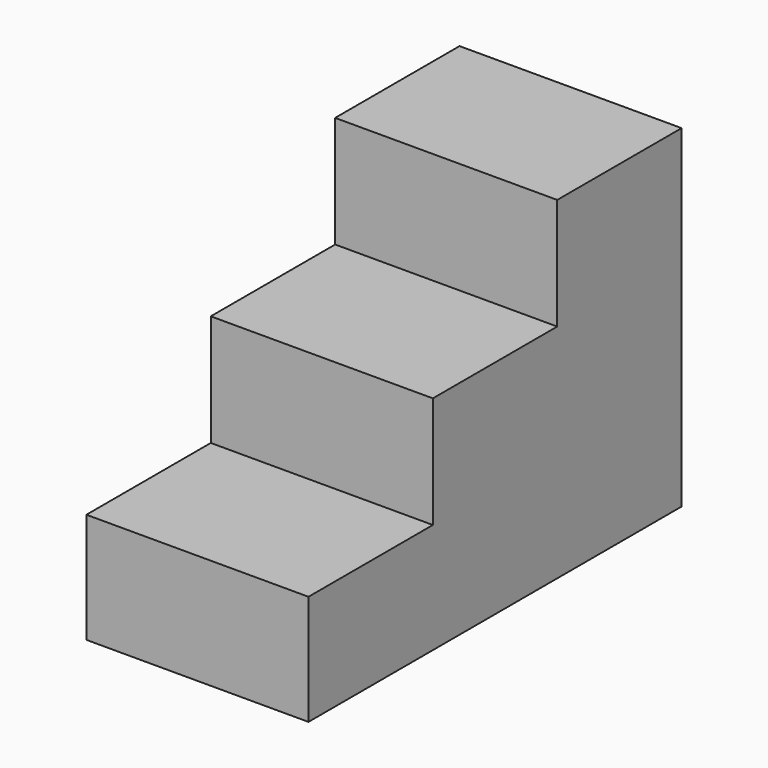
from build123d import *

# Parameters (mm, degrees)
F0_W     = 1270
F0_H     = 1905
F1_DEPTH = 2667
F2_W     = 889
F2_H     = 635
F3_DEPTH = 1882.14
F4_W     = 889
F4_H     = 640.0108528137
F5_DEPTH = 2161.54
F7_W     = 889
F7_H     = 637.5054264069
F8_DEPTH = 2392.68


with BuildPart() as f1:
    # F0 (on Front) → F1 (new body)
    with BuildSketch(Plane.XZ):
        with Locations((-635, 952.5)):
            Rectangle(F0_W, F0_H)
    extrude(amount=F1_DEPTH)

    # F2 (on face) → F3 (cut)
    with BuildSketch(Plane.YZ):
        with Locations((-2222.5, 947.4891471863)):
            Rectangle(F2_W, F2_H)
    extrude(amount=-F3_DEPTH, mode=Mode.SUBTRACT)

    # F4 (on face) → F5 (cut)
    with BuildSketch(Plane.YZ):
        with Locations((-2222.5, 1584.9945735931)):
            Rectangle(F4_W, F4_H)
    extrude(amount=-F5_DEPTH, mode=Mode.SUBTRACT)

    # F7 (on face) → F8 (cut)
    with BuildSketch(Plane.YZ):
        with Locations((-1333.5, 1586.2472867966)):
            Rectangle(F7_W, F7_H)
    extrude(amount=-F8_DEPTH, mode=Mode.SUBTRACT)


solid = f1.part
